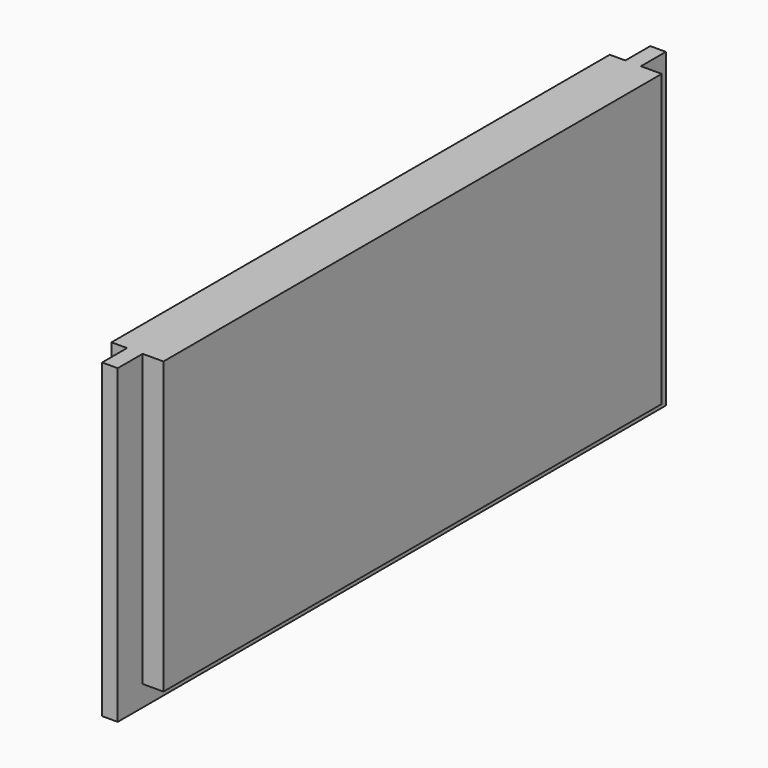
from build123d import *

# Parameters (mm, degrees)
F1_DEPTH = 28
F2_W     = 1.5
F2_H     = 66
F3_DEPTH = 2


with BuildPart() as f1:
    # F0 (on Top) → F1 (new body)
    with BuildSketch(Plane.XY):
        Polygon((0.5, -30), (2.5, -30), (2.5, 30), (0.5, 30), (-1, 30), (-2.5, 30), (-2.5, -30), (-1, -30), align=None)
        Polygon((-1, 30), (0.5, 30), (0.5, 31.5), (0.5, 33), (-1, 33), align=None)
        Polygon((0.5, -31.5), (0.5, -30), (-1, -30), (-1, -33), (0.5, -33), align=None)
    extrude(amount=-F1_DEPTH)

    # F2 (on face) → F3 (join)
    with BuildSketch(Plane(origin=(0, 0, -28), x_dir=(1, 0, 0), z_dir=(0, 0, -1))):
        with Locations((-0.25, 0)):
            Rectangle(F2_W, F2_H)
        Polygon((0.5, 30), (0.5, 33), (-1, 33), (-1, 30), (-1, -30), (-1, -33), (0.5, -33), (0.5, -30), align=None)
    extrude(amount=F3_DEPTH)


solid = f1.part
